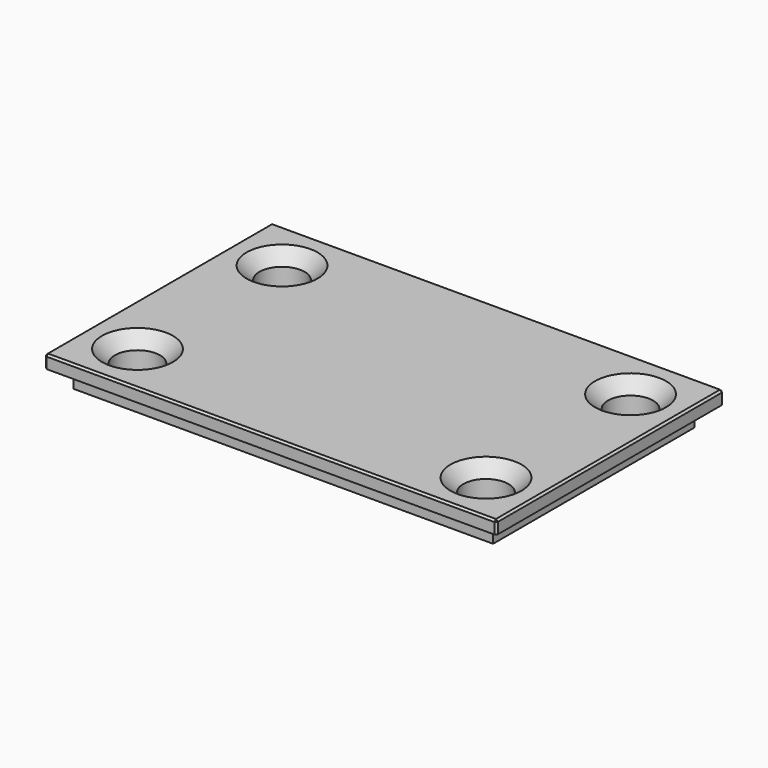
from build123d import *

# Parameters (mm, degrees)
F0_W     = 35
F0_H     = 22
F1_DEPTH = 1
F2_SIZE  = 0.15
F3_W     = 32.5
F3_H     = 19.5
F4_DEPTH = 1.5
F5_R     = 1.75
F6_DEPTH = 25
F7_SIZE  = 1


with BuildPart() as f1:
    # F0 (on Top) → F1 (new body)
    with BuildSketch(Plane.XY):
        Rectangle(F0_W, F0_H)
    extrude(amount=F1_DEPTH)

    # F2
    f2_edges = [f1.edges().sort_by_distance(p)[0] for p in [
        (-17.5, 0, 1),
        (0, 11, 1),
        (17.5, 0, 1),
        (0, -11, 1),
        (-17.5, 11, 0.5),
        (17.5, 11, 0.5),
        (17.5, -11, 0.5),
        (-17.5, -11, 0.5),
    ]]
    chamfer(f2_edges, length=F2_SIZE)

    # F3 (on face) → F4 (join)
    with BuildSketch(Plane(origin=(0, 0, 0), x_dir=(1, 0, 0), z_dir=(0, 0, -1))):
        Rectangle(F3_W, F3_H)
    extrude(amount=F4_DEPTH)

    # F5 (on face) → F6 (cut)
    with BuildSketch(Plane(origin=(0, 0, -1.5), x_dir=(1, 0, 0), z_dir=(0, 0, -1))):
        with Locations((-13.5, 7)):
            Circle(F5_R)
        with Locations((-13.5, -7)):
            Circle(F5_R)
        with Locations((13.5, -7)):
            Circle(F5_R)
        with Locations((13.5, 7)):
            Circle(F5_R)
    extrude(amount=-F6_DEPTH, mode=Mode.SUBTRACT)

    # F7
    f7_edges = [f1.edges().sort_by_distance(p)[0] for p in [
        (-15.25, 7, 1),
        (11.75, 7, 1),
        (11.75, -7, 1),
        (-15.25, -7, 1),
    ]]
    chamfer(f7_edges, length=F7_SIZE)


solid = f1.part
